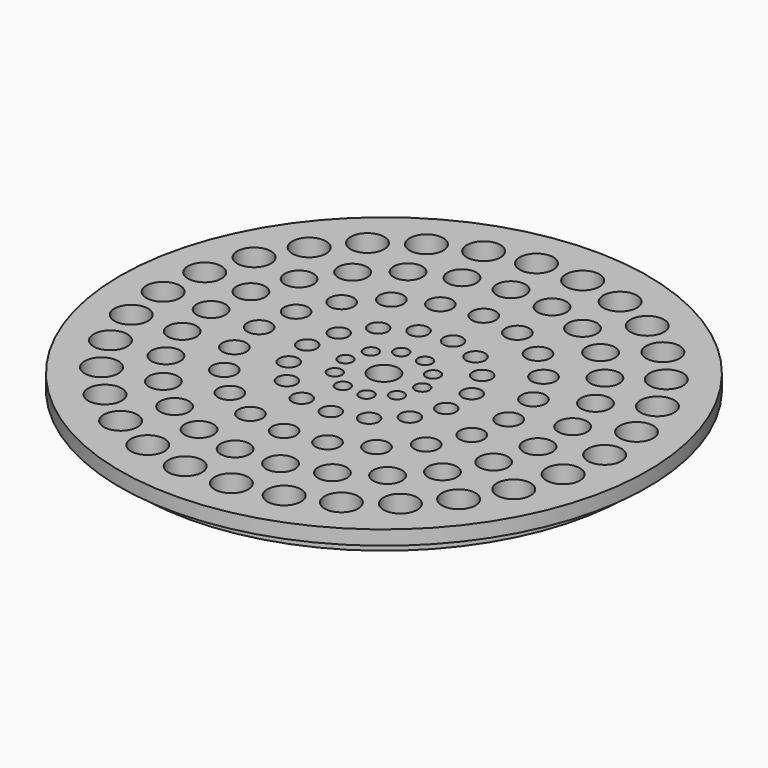
from build123d import *

# Parameters (mm, degrees)
SKETCH020_R           = 3.5
POCKET008_DEPTH       = 100
POCKET008_DEPTH_BACK  = 100
POLARPATTERN005_COUNT = 30
SKETCH021_R           = 3
POCKET009_DEPTH       = 100
POCKET009_DEPTH_BACK  = 100
POLARPATTERN006_COUNT = 25
SKETCH022_R           = 2.5
POCKET010_DEPTH       = 100
POCKET010_DEPTH_BACK  = 100
POLARPATTERN007_COUNT = 20
SKETCH023_R           = 2
POCKET011_DEPTH       = 100
POCKET011_DEPTH_BACK  = 100
POLARPATTERN008_COUNT = 15
SKETCH024_R           = 1.5
POCKET012_DEPTH       = 100
POCKET012_DEPTH_BACK  = 100
POLARPATTERN009_COUNT = 10
SKETCH025_R           = 3
POCKET013_DEPTH       = 100
POCKET013_DEPTH_BACK  = 100


with BuildPart() as part:
    # Sketch019 → Revolution003 (revolve)
    with BuildSketch(Plane.XZ):
        Polygon((-55, -20), (0, -20), (0, -26), (-51, -26), (-51, -23), (-55, -23), align=None)
    revolve(axis=Axis((0, 0, 0), (0, 0, 1)))

    # Sketch020 → Pocket008 (cut, two sides)
    with BuildSketch(Plane.XY) as pocket008_sk:
        with Locations((-46, 0)):
            Circle(SKETCH020_R)
    pocket008 = extrude(amount=-POCKET008_DEPTH, mode=Mode.SUBTRACT) + extrude(pocket008_sk.sketch, amount=POCKET008_DEPTH_BACK, mode=Mode.SUBTRACT)

    # PolarPattern005: Pocket008 ×30 about axis
    polarpattern005_axis = Axis((0, 0, 0), (0, 0, 1))
    for i in range(1, POLARPATTERN005_COUNT):
        add(pocket008.rotate(polarpattern005_axis, i * 360 / POLARPATTERN005_COUNT), mode=Mode.SUBTRACT)

    # Sketch021 → Pocket009 (cut, two sides)
    with BuildSketch(Plane.XY) as pocket009_sk:
        with Locations((-36, 0)):
            Circle(SKETCH021_R)
    pocket009 = extrude(amount=-POCKET009_DEPTH, mode=Mode.SUBTRACT) + extrude(pocket009_sk.sketch, amount=POCKET009_DEPTH_BACK, mode=Mode.SUBTRACT)

    # PolarPattern006: Pocket009 ×25 about axis
    polarpattern006_axis = Axis((0, 0, 0), (0, 0, 1))
    for i in range(1, POLARPATTERN006_COUNT):
        add(pocket009.rotate(polarpattern006_axis, i * 360 / POLARPATTERN006_COUNT), mode=Mode.SUBTRACT)

    # Sketch022 → Pocket010 (cut, two sides)
    with BuildSketch(Plane.XY) as pocket010_sk:
        with Locations((-26, 0)):
            Circle(SKETCH022_R)
    pocket010 = extrude(amount=-POCKET010_DEPTH, mode=Mode.SUBTRACT) + extrude(pocket010_sk.sketch, amount=POCKET010_DEPTH_BACK, mode=Mode.SUBTRACT)

    # PolarPattern007: Pocket010 ×20 about axis
    polarpattern007_axis = Axis((0, 0, 0), (0, 0, 1))
    for i in range(1, POLARPATTERN007_COUNT):
        add(pocket010.rotate(polarpattern007_axis, i * 360 / POLARPATTERN007_COUNT), mode=Mode.SUBTRACT)

    # Sketch023 → Pocket011 (cut, two sides)
    with BuildSketch(Plane.XY) as pocket011_sk:
        with Locations((-16, 0)):
            Circle(SKETCH023_R)
    pocket011 = extrude(amount=-POCKET011_DEPTH, mode=Mode.SUBTRACT) + extrude(pocket011_sk.sketch, amount=POCKET011_DEPTH_BACK, mode=Mode.SUBTRACT)

    # PolarPattern008: Pocket011 ×15 about axis
    polarpattern008_axis = Axis((0, 0, 0), (0, 0, 1))
    for i in range(1, POLARPATTERN008_COUNT):
        add(pocket011.rotate(polarpattern008_axis, i * 360 / POLARPATTERN008_COUNT), mode=Mode.SUBTRACT)

    # Sketch024 → Pocket012 (cut, two sides)
    with BuildSketch(Plane.XY) as pocket012_sk:
        with Locations((-8, 0)):
            Circle(SKETCH024_R)
    pocket012 = extrude(amount=-POCKET012_DEPTH, mode=Mode.SUBTRACT) + extrude(pocket012_sk.sketch, amount=POCKET012_DEPTH_BACK, mode=Mode.SUBTRACT)

    # PolarPattern009: Pocket012 ×10 about axis
    polarpattern009_axis = Axis((0, 0, 0), (0, 0, 1))
    for i in range(1, POLARPATTERN009_COUNT):
        add(pocket012.rotate(polarpattern009_axis, i * 360 / POLARPATTERN009_COUNT), mode=Mode.SUBTRACT)

    # Sketch025 → Pocket013 (cut, two sides)
    with BuildSketch(Plane.XY) as pocket013_sk:
        Circle(SKETCH025_R)
    extrude(amount=-POCKET013_DEPTH, mode=Mode.SUBTRACT)
    extrude(pocket013_sk.sketch, amount=POCKET013_DEPTH_BACK, mode=Mode.SUBTRACT)


solid = part.part
